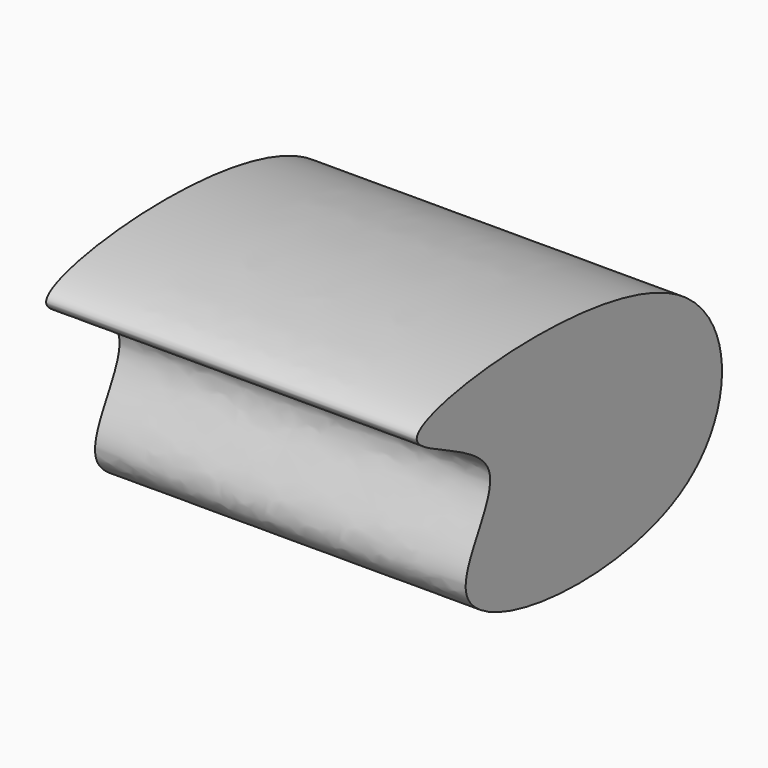
from build123d import *

# Parameters (mm, degrees)
F1_DEPTH = 76.2


with BuildPart() as f1:
    # F0 (on Right) → F1 (new body)
    with BuildSketch(Plane.YZ):
        with BuildLine():
            add(Edge.make_bspline(
                [(-26.9588455558, 36.4907234907), (-26.9757876695, 42.2431489524), (54.7866973062, 50.9404302043), (54.9494677981, -13.8484184263), (-32.9265368105, -4.8469686472), (4.5189286001, 26.1185152497), (-26.9490241382, 33.156017245), (-26.9588455558, 36.4907234907)],
                knots=[0, 0, 0, 0, 0.2646358136, 0.4558263218, 0.6976673609, 0.8465894593, 1, 1, 1, 1], degree=3))
        make_face()
    extrude(amount=F1_DEPTH)


solid = f1.part
